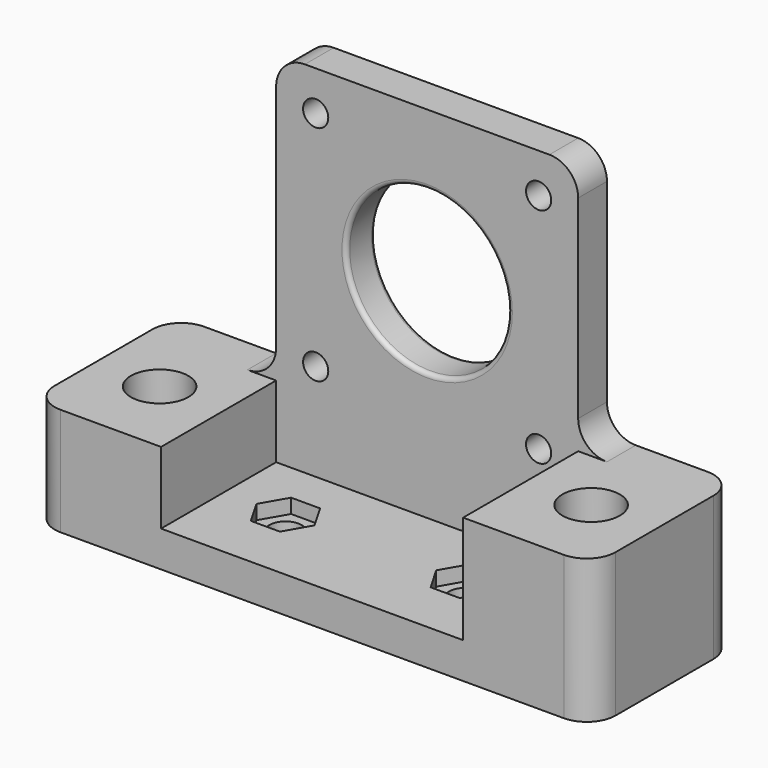
from build123d import *

# Parameters (mm, degrees)
F1_DEPTH  = 5
F2_W      = 18
F2_H      = 15
F2_H_2    = 20
F3_DEPTH  = 20
F4_R      = 4
F5_DEPTH  = 25
F6_R      = 1.75
F6_R_2    = 11.25
F7_DEPTH  = 25
F8_W      = 42
F8_H      = 5
F9_DEPTH  = 20
F10_R     = 2.25
F11_DEPTH = 25
F12_DEPTH = 2
F13_R     = 4
F14_R     = 0.6


with BuildPart() as f1:
    # F0 (on Front) → F1 (new body)
    with BuildSketch(Plane.XZ):
        Polygon((-49.7673791122, 6.8827710084), (-49.7673791122, -8.1172289916), (28.2326208878, -8.1172289916), (28.2326208878, 11.8827710084), (10.2326208878, 11.8827710084), (10.2326208878, 46.8827710084), (-31.7673791122, 46.8827710084), (-31.7673791122, 6.8827710084), align=None)
    extrude(amount=F1_DEPTH)

    # F2 (on face) → F3 (join)
    with BuildSketch(Plane.XZ.offset(5)):
        with Locations((-40.7673791122, -0.6172289916)):
            Rectangle(F2_W, F2_H)
        with Locations((19.2326208878, 1.8827710084)):
            Rectangle(F2_W, F2_H_2)
    extrude(amount=F3_DEPTH)

    # F4 (on face) → F5 (cut)
    with BuildSketch(Plane(origin=(0, 0, -8.1172289916), x_dir=(1, 0, 0), z_dir=(0, 0, -1))):
        with Locations((-40.7673791122, 14)):
            Circle(F4_R)
        with Locations((19.2326208878, 14)):
            Circle(F4_R)
    extrude(amount=-F5_DEPTH, mode=Mode.SUBTRACT)

    # F6 (on face) → F7 (cut)
    with BuildSketch(Plane.XZ.offset(5)):
        with Locations((-26.2673791122, 41.3827710084)):
            Circle(F6_R)
        with Locations((-26.2673791122, 10.3827710084)):
            Circle(F6_R)
        with Locations((-10.7673791122, 25.8827710084)):
            Circle(F6_R_2)
        with Locations((4.7326208878, 41.3827710084)):
            Circle(F6_R)
        with Locations((4.7326208878, 10.3827710084)):
            Circle(F6_R)
    extrude(amount=-F7_DEPTH, mode=Mode.SUBTRACT)

    # F8 (on face) → F9 (join)
    with BuildSketch(Plane.XZ.offset(5)):
        with Locations((-10.7673791122, -5.6172289916)):
            Rectangle(F8_W, F8_H)
    extrude(amount=F9_DEPTH)

    # F10 (on face) → F11 (cut)
    with BuildSketch(Plane.XY.offset(-3.1172289916)):
        with Locations((-23.2673791122, -14)):
            Circle(F10_R)
        with Locations((1.7326208878, -14)):
            Circle(F10_R)
    extrude(amount=-F11_DEPTH, mode=Mode.SUBTRACT)

    # F10 (on face) → F12 (cut)
    with BuildSketch(Plane.XY.offset(-3.1172289916)):
        Polygon((-21.24665317, -17.5), (-19.2259272279, -14), (-21.24665317, -10.5), (-25.2881050544, -10.5), (-27.3088309965, -14), (-25.2881050544, -17.5), align=None)
        with Locations((-23.2673791122, -14)):
            Circle(F10_R, mode=Mode.SUBTRACT)
        Polygon((3.75334683, -17.5), (5.7740727721, -14), (3.75334683, -10.5), (-0.2881050544, -10.5), (-2.3088309965, -14), (-0.2881050544, -17.5), align=None)
        with Locations((1.7326208878, -14)):
            Circle(F10_R, mode=Mode.SUBTRACT)
    extrude(amount=-F12_DEPTH, mode=Mode.SUBTRACT)

    # F13
    f13_edges = [f1.edges().sort_by_distance(p)[0] for p in [
        (-49.767379, -25, -0.617229),
        (28.232621, -25, 1.882771),
        (28.232621, 0, 1.882771),
        (-49.767379, 0, -0.617229),
        (-31.767379, -2.5, 46.882771),
        (10.232621, -2.5, 46.882771),
        (-31.767379, -2.5, 6.882771),
        (10.232621, -2.5, 11.882771),
    ]]
    fillet(f13_edges, radius=F13_R)

    # F14
    f14_edges = [f1.edges().sort_by_distance(p)[0] for p in [
        (-22.017379, 0, 25.882771),
        (-22.017379, -5, 25.882771),
    ]]
    fillet(f14_edges, radius=F14_R)


solid = f1.part
